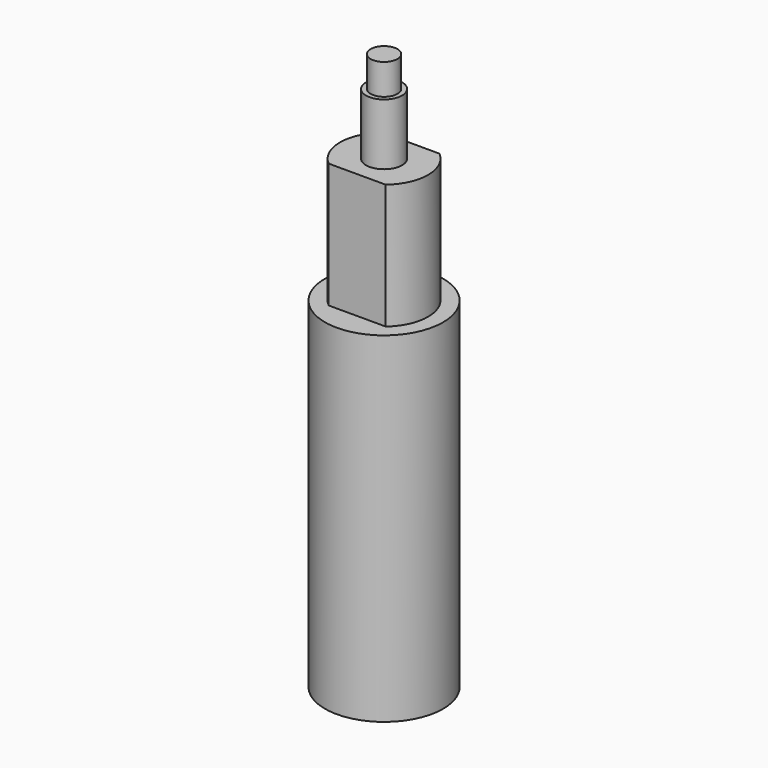
from build123d import *

# Parameters (mm, degrees)
SKETCH002_R  = 1.7
PAD002_DEPTH = 5.8
SKETCH003_R  = 1.27
PAD003_DEPTH = 2.9
PAD_DEPTH    = 11.8
SKETCH001_R  = 5.58
PAD001_DEPTH = 32.15


with BuildPart() as metal:
    # Sketch002 → Pad002 (new body)
    with BuildSketch(Plane.XY):
        Circle(SKETCH002_R)
    extrude(amount=PAD002_DEPTH)

    # Sketch003 (on Face3 of Pad002) → Pad003 (join)
    with BuildSketch(Plane.XY.offset(5.8)):
        Circle(SKETCH003_R)
    extrude(amount=PAD003_DEPTH)


with BuildPart() as metal_1:
    # Body001 placement: moved
    add(metal.part.moved(Location((0, 0, 11.8))))


with BuildPart() as f_9280red:
    # Sketch → Pad (new body)
    with BuildSketch(Plane.XY):
        with BuildLine():
            ThreePointArc((-2.695663, 3.175), (-4.165, 0), (-2.695663, -3.175))
            Line((-2.695663, -3.175), (2.695663, -3.175))
            ThreePointArc((2.695663, -3.175), (4.165, 0), (2.695663, 3.175))
            Line((-2.695663, 3.175), (2.695663, 3.175))
        make_face()
    extrude(amount=PAD_DEPTH)

    # Sketch001 (on Sketch) → Pad001 (join)
    with BuildSketch(Plane.XY):
        Circle(SKETCH001_R)
    extrude(amount=-PAD001_DEPTH)

    # Fusion: union metal
    add(metal_1.part)


solid = f_9280red.part
